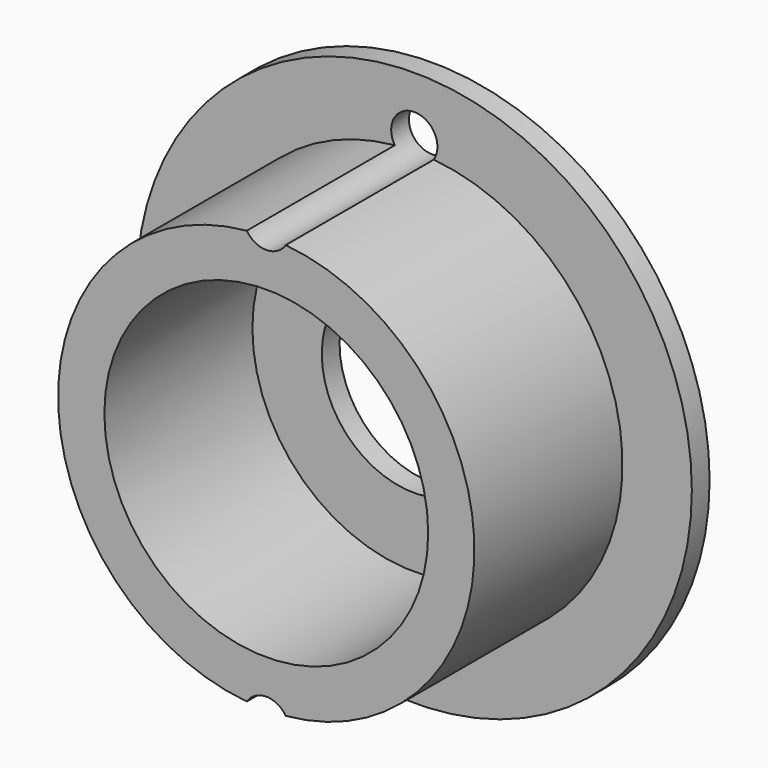
from build123d import *

# Parameters (mm, degrees)
F0_R     = 14.2875
F0_R_2   = 11.1125
F1_DEPTH = 12.7
F2_R     = 19.05
F2_R_2   = 1.5875
F2_R_3   = 6.35
F3_DEPTH = 1.524
F4_R     = 1.5875
F5_DEPTH = 25.4


with BuildPart() as f1:
    # F0 (on Front) → F1 (new body)
    with BuildSketch(Plane.XZ):
        Circle(F0_R)
        Circle(F0_R_2, mode=Mode.SUBTRACT)
    extrude(amount=-F1_DEPTH)

    # F2 (on face) → F3 (join)
    with BuildSketch(Plane(origin=(0, 12.7, 0), x_dir=(-1, 0, 0), z_dir=(0, 1, 0))):
        Circle(F2_R)
        with Locations((0, -15.08125)):
            Circle(F2_R_2, mode=Mode.SUBTRACT)
        Circle(F2_R_3, mode=Mode.SUBTRACT)
        with Locations((0, 15.08125)):
            Circle(F2_R_2, mode=Mode.SUBTRACT)
        with BuildLine():
            ThreePointArc((1.336679, 14.224836), (0, 14.2875), (-1.336679, 14.224836))
            ThreePointArc((-1.336679, 14.224836), (0, 13.49375), (1.336679, 14.224836))
        make_face()
        with BuildLine():
            ThreePointArc((1.336679, -14.224836), (0, -14.2875), (-1.336679, -14.224836))
            ThreePointArc((-1.336679, -14.224836), (-0.446194, -16.604755), (1.5875, -15.08125))
            ThreePointArc((1.5875, -15.08125), (1.523505, -14.635056), (1.336679, -14.224836))
        make_face()
        with BuildLine():
            ThreePointArc((1.336679, -14.224836), (0, -13.49375), (-1.336679, -14.224836))
            ThreePointArc((-1.336679, -14.224836), (0, -14.2875), (1.336679, -14.224836))
        make_face()
        with BuildLine():
            ThreePointArc((1.336679, 14.224836), (1.523505, 14.635056), (1.5875, 15.08125))
            ThreePointArc((1.5875, 15.08125), (-0.446194, 16.604755), (-1.336679, 14.224836))
            ThreePointArc((-1.336679, 14.224836), (0, 14.2875), (1.336679, 14.224836))
        make_face()
    extrude(amount=F3_DEPTH)

    # F4 (on face) → F5 (cut)
    with BuildSketch(Plane(origin=(0, 14.224, 0), x_dir=(-1, 0, 0), z_dir=(0, 1, 0))):
        with Locations((0, 15.08125)):
            Circle(F4_R)
        with Locations((0, -15.08125)):
            Circle(F4_R)
    extrude(amount=-F5_DEPTH, mode=Mode.SUBTRACT)


solid = f1.part
